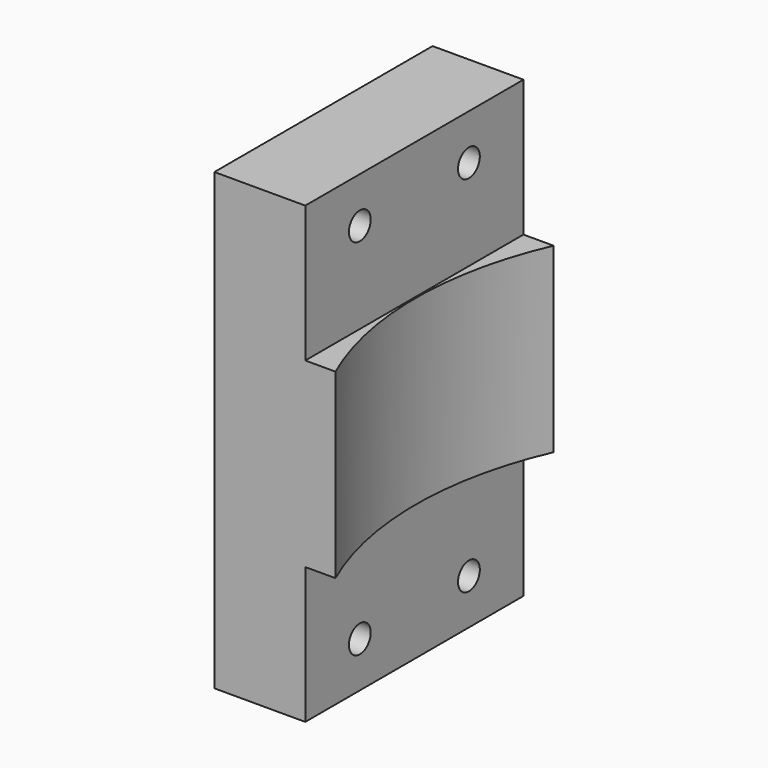
from build123d import *

# Parameters (mm, degrees)
F0_W     = 30
F0_H     = 50
F1_DEPTH = 10
F2_W     = 30
F2_H     = 20
F3_DEPTH = 10
F4_R     = 37
F5_DEPTH = 25.001
F6_DEPTH = 25.001
F7_R     = 1.5
F8_DEPTH = 10.001


with BuildPart() as f1:
    # F0 (on Right) → F1 (new body)
    with BuildSketch(Plane.YZ):
        Rectangle(F0_W, F0_H)
    extrude(amount=F1_DEPTH)

    # F2 (on face) → F3 (join)
    with BuildSketch(Plane.YZ.offset(10)):
        Rectangle(F2_W, F2_H)
    extrude(amount=F3_DEPTH)

    # F4 (on Top) → F5 (cut, through all)
    with BuildSketch(Plane.XY):
        with Locations((47.141809, 0)):
            Circle(F4_R)
    extrude(amount=-F5_DEPTH, mode=Mode.SUBTRACT)

    # F4 (on Top) → F6 (cut, through all)
    with BuildSketch(Plane.XY):
        with Locations((47.141809, 0)):
            Circle(F4_R)
    extrude(amount=F6_DEPTH, mode=Mode.SUBTRACT)

    # F7 (on face) → F8 (cut, through all)
    with BuildSketch(Plane.YZ.offset(10)):
        with Locations((-7.5, 20)):
            Circle(F7_R)
        with Locations((7.5, 20)):
            Circle(F7_R)
        with Locations((-7.5, -20)):
            Circle(F7_R)
        with Locations((7.5, -20)):
            Circle(F7_R)
    extrude(amount=-F8_DEPTH, mode=Mode.SUBTRACT)


solid = f1.part
